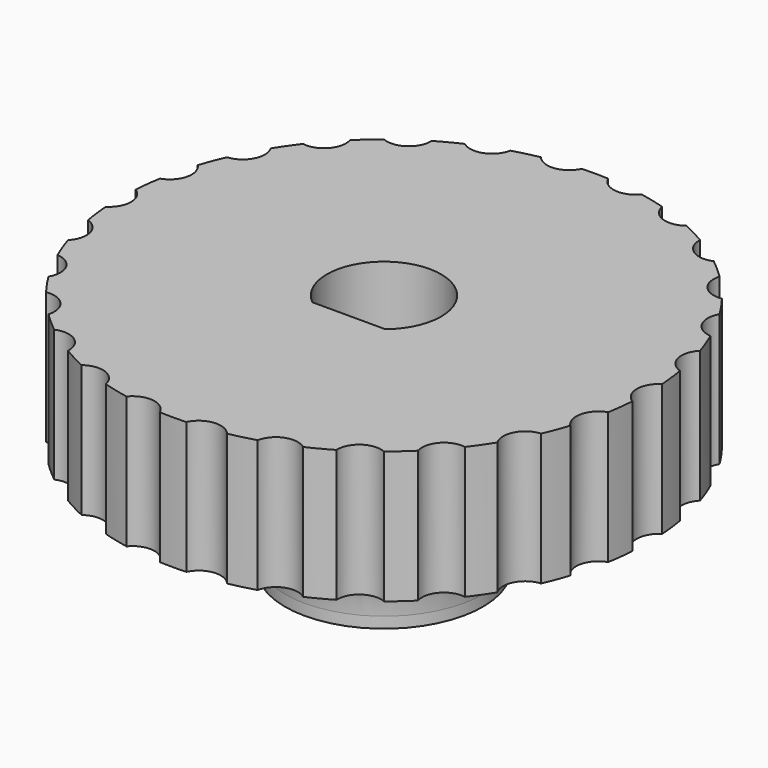
from build123d import *

# Parameters (mm, degrees)
SKETCH019_R        = 4.5
PAD010_DEPTH       = 5
SKETCH020_R        = 12
PAD011_DEPTH       = 6
SKETCH021_R        = 1
POCKET006_DEPTH    = 6
POLARPATTERN_COUNT = 26
FILLET_R           = 4.5


with BuildPart() as part:
    # Sketch019 → Pad010 (new body)
    with BuildSketch(Plane(origin=(21.15, 21.15, 62.75), x_dir=(0, -1, 0), z_dir=(0, 0, 1))):
        Circle(SKETCH019_R)
        with BuildLine():
            ThreePointArc((2, 1.661325), (-2.6, 0), (2, -1.661325))
            Line((2, 1.661325), (2, -1.661325))
        make_face(mode=Mode.SUBTRACT)
    extrude(amount=PAD010_DEPTH)

    # Sketch020 → Pad011 (new body)
    with BuildSketch(Plane(origin=(21.15, 21.15, 67.75), x_dir=(0, -1, 0), z_dir=(0, 0, 1))):
        Circle(SKETCH020_R)
        with BuildLine():
            ThreePointArc((2, 1.661325), (-2.6, 0), (2, -1.661325))
            Line((2, 1.661325), (2, -1.661325))
        make_face(mode=Mode.SUBTRACT)
    extrude(amount=PAD011_DEPTH)

    # Sketch021 → Pocket006 (cut)
    with BuildSketch(Plane(origin=(21.15, 21.15, 73.75), x_dir=(0, -1, 0), z_dir=(0, 0, 1))):
        with Locations((0, 12.5)):
            Circle(SKETCH021_R)
    pocket006 = extrude(amount=-POCKET006_DEPTH, mode=Mode.SUBTRACT)

    # PolarPattern: Pocket006 ×26 about axis
    polarpattern_axis = Axis((21.15, 21.15, 73.75), (0, 0, 1))
    for i in range(1, POLARPATTERN_COUNT):
        add(pocket006.rotate(polarpattern_axis, i * 360 / POLARPATTERN_COUNT), mode=Mode.SUBTRACT)

    # Fillet
    fillet_edges = [part.edges().sort_by_distance(p)[0] for p in [
        (21.15, 25.65, 67.75),
    ]]
    fillet(fillet_edges, radius=FILLET_R)


solid = part.part
